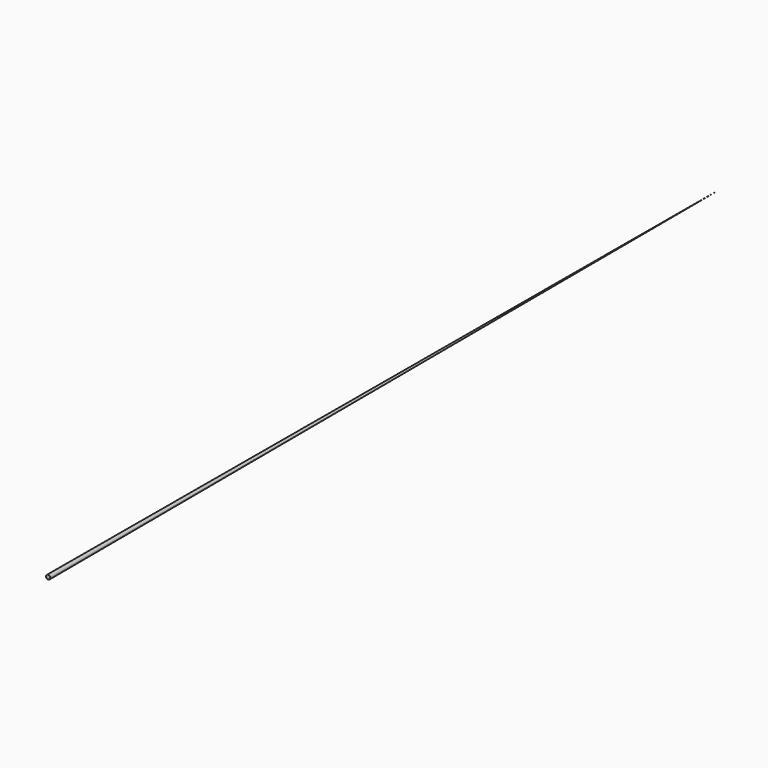
from build123d import *


with BuildPart() as f1:
    # F0 (on Right) → F1 (revolve)
    with BuildSketch(Plane.YZ):
        Polygon((0, 0.75), (0, 0), (300, 0), align=None)
    revolve(axis=Axis((0, 150, 0), (0, 1, 0)))


solid = f1.part
